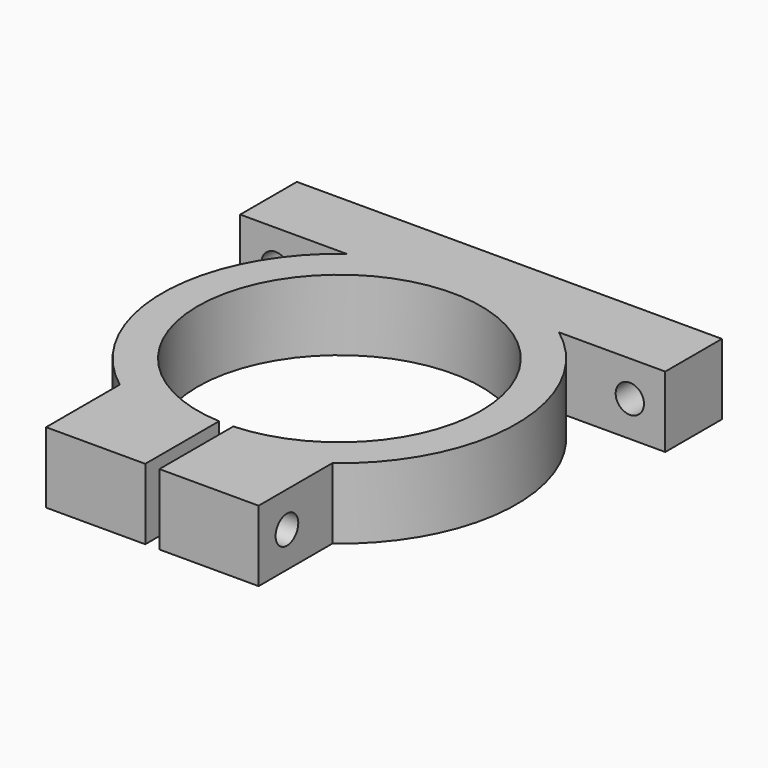
from build123d import *

# Parameters (mm, degrees)
CYLINDER002_R     = 2
CYLINDER002_DEPTH = 10
CYLINDER001_R     = 20
CYLINDER001_DEPTH = 10
CYLINDER004_R     = 2
CYLINDER004_DEPTH = 30
BOX002_W          = 2
BOX002_H          = 15
BOX002_DEPTH      = 10
CYLINDER003_R     = 2
CYLINDER003_DEPTH = 10
BOX_W             = 60
BOX_H             = 10
BOX_DEPTH         = 10
BOX001_W          = 30
BOX001_H          = 15
BOX001_DEPTH      = 10
CYLINDER_R        = 25
CYLINDER_DEPTH    = 10


with BuildPart() as cylinder002:
    # Cylinder002 → Cylinder002 (new body)
    with BuildSketch(Plane(origin=(25, 20, 0), x_dir=(1, 0, 0), z_dir=(0, 1, 0))):
        Circle(CYLINDER002_R)
    extrude(amount=CYLINDER002_DEPTH)


with BuildPart() as cylinder001:
    # Cylinder001 → Cylinder001 (new body)
    with BuildSketch(Plane.XY.offset(-5)):
        Circle(CYLINDER001_R)
    extrude(amount=CYLINDER001_DEPTH)


with BuildPart() as cylinder004:
    # Cylinder004 → Cylinder004 (new body)
    with BuildSketch(Plane(origin=(-15, -28, 0), x_dir=(0, 0, -1), z_dir=(1, 0, 0))):
        Circle(CYLINDER004_R)
    extrude(amount=CYLINDER004_DEPTH)


with BuildPart() as cube002:
    # Box002 → Box002 (new body)
    with BuildSketch(Plane(origin=(-1, -33, -5), x_dir=(1, 0, 0), z_dir=(0, 0, 1))):
        with Locations((1, 7.5)):
            Rectangle(BOX002_W, BOX002_H)
    extrude(amount=BOX002_DEPTH)


with BuildPart() as negative_fusion:
    # Cylinder003 → Cylinder003 (new body)
    with BuildSketch(Plane(origin=(-25, 20, 0), x_dir=(1, 0, 0), z_dir=(0, 1, 0))):
        Circle(CYLINDER003_R)
    extrude(amount=CYLINDER003_DEPTH)

    # Fusion001: union Cylinder002, Cylinder001, Cylinder004, Cube002
    add(cylinder002.part)
    add(cylinder001.part)
    add(cylinder004.part)
    add(cube002.part)


with BuildPart() as cube:
    # Box → Box (new body)
    with BuildSketch(Plane(origin=(-30, 20, -5), x_dir=(1, 0, 0), z_dir=(0, 0, 1))):
        with Locations((30, 5)):
            Rectangle(BOX_W, BOX_H)
    extrude(amount=BOX_DEPTH)


with BuildPart() as cube001:
    # Box001 → Box001 (new body)
    with BuildSketch(Plane(origin=(-15, -33, -5), x_dir=(1, 0, 0), z_dir=(0, 0, 1))):
        with Locations((15, 7.5)):
            Rectangle(BOX001_W, BOX001_H)
    extrude(amount=BOX001_DEPTH)


with BuildPart() as cut:
    # Cylinder → Cylinder (new body)
    with BuildSketch(Plane.XY.offset(-5)):
        Circle(CYLINDER_R)
    extrude(amount=CYLINDER_DEPTH)

    # Fusion: union Cube, Cube001
    add(cube.part)
    add(cube001.part)

    # Cut: cut Negative Fusion
    add(negative_fusion.part, mode=Mode.SUBTRACT)


solid = cut.part
